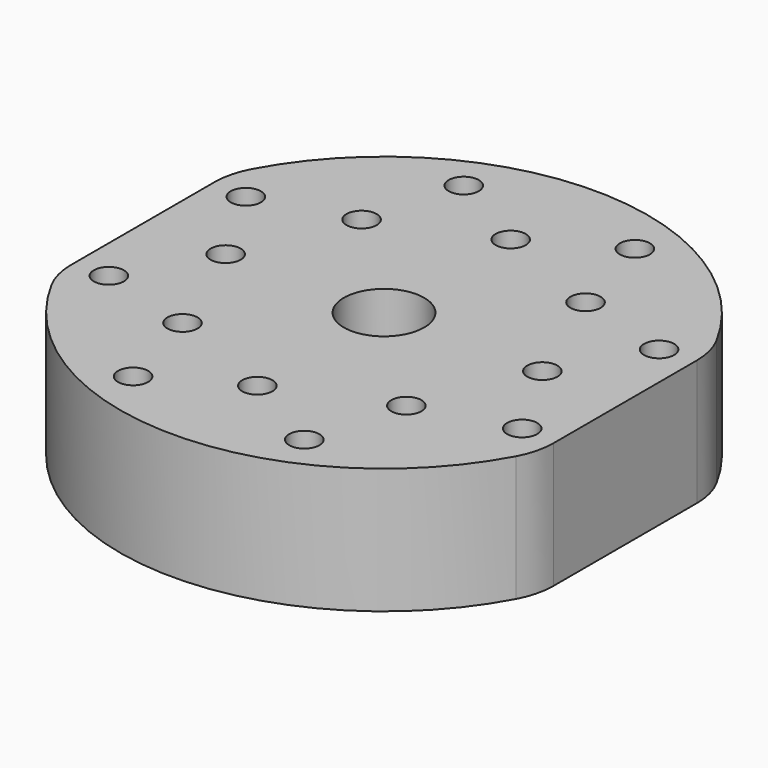
from build123d import *

# Parameters (mm, degrees)
SKETCH_R   = 3
SKETCH_R_2 = 8
PAD_DEPTH  = 25


with BuildPart() as part:
    # Sketch → Pad (new body)
    with BuildSketch(Plane.XY):
        with BuildLine():
            ThreePointArc((-46.2, -24.936118), (0, -52.5), (46.2, -24.936118))
            ThreePointArc((46.2, -24.936118), (47.54304, -21.485748), (48, -17.811513))
            Line((48, 17.811513), (48, -17.811513))
            ThreePointArc((48, 17.811513), (47.54304, 21.485748), (46.2, 24.936118))
            ThreePointArc((46.2, 24.936118), (0, 52.5), (-46.2, 24.936118))
            ThreePointArc((-46.2, 24.936118), (-47.54304, 21.485748), (-48, 17.811513))
            Line((-48, 17.811513), (-48, -17.811513))
            ThreePointArc((-48, -17.811513), (-47.54304, -21.485748), (-46.2, -24.936118))
        make_face()
        with Locations((22.273864, 22.273864)):
            Circle(SKETCH_R, mode=Mode.SUBTRACT)
        with Locations((0, 31.5)):
            Circle(SKETCH_R, mode=Mode.SUBTRACT)
        with Locations((31.5, 0)):
            Circle(SKETCH_R, mode=Mode.SUBTRACT)
        with Locations((0, -31.5)):
            Circle(SKETCH_R, mode=Mode.SUBTRACT)
        with Locations((-22.273864, -22.273864)):
            Circle(SKETCH_R, mode=Mode.SUBTRACT)
        with Locations((-31.5, 0)):
            Circle(SKETCH_R, mode=Mode.SUBTRACT)
        with Locations((-22.273864, 22.273864)):
            Circle(SKETCH_R, mode=Mode.SUBTRACT)
        with Locations((22.273864, -22.273864)):
            Circle(SKETCH_R, mode=Mode.SUBTRACT)
        with Locations((-17.029413, 41.112639)):
            Circle(SKETCH_R, mode=Mode.SUBTRACT)
        with Locations((17.029413, 41.112639)):
            Circle(SKETCH_R, mode=Mode.SUBTRACT)
        with Locations((41.112639, 17.029413)):
            Circle(SKETCH_R, mode=Mode.SUBTRACT)
        with Locations((41.112639, -17.029413)):
            Circle(SKETCH_R, mode=Mode.SUBTRACT)
        with Locations((17.029413, -41.112639)):
            Circle(SKETCH_R, mode=Mode.SUBTRACT)
        with Locations((-17.029413, -41.112639)):
            Circle(SKETCH_R, mode=Mode.SUBTRACT)
        with Locations((-41.112639, -17.029413)):
            Circle(SKETCH_R, mode=Mode.SUBTRACT)
        with Locations((-41.112639, 17.029413)):
            Circle(SKETCH_R, mode=Mode.SUBTRACT)
        Circle(SKETCH_R_2, mode=Mode.SUBTRACT)
    extrude(amount=PAD_DEPTH)


solid = part.part
